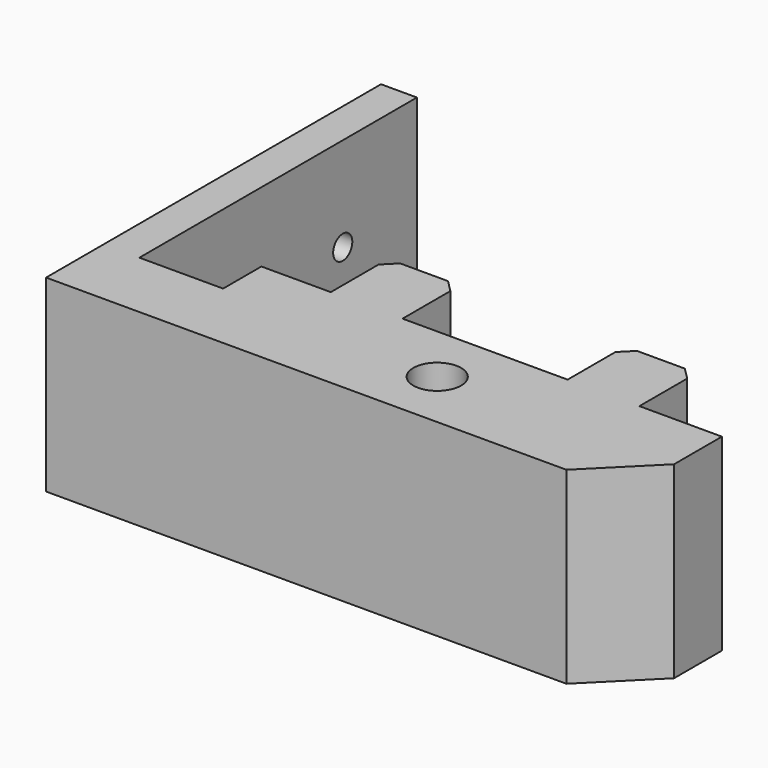
from build123d import *

# Parameters (mm, degrees)
F1_DEPTH  = 15.75
F4_D      = 4
F5_DEPTH  = 3
F6_W      = 3
F6_H      = 15.75
F7_DEPTH  = 25
F9_D      = 2
F10_W     = 6
F10_H     = 4
F11_DEPTH = 15.751
F12_SIZE  = 1
F13_SIZE  = 5
F14_DEPTH = 1
F15_DEPTH = 1


with BuildPart() as f1:
    # F0 (on Top) → F1 (new body)
    with BuildSketch(Plane.XY):
        Polygon((0, 0), (44.5, 0), (44.5, 10), (37.6, 10), (37.6, 16), (31.6, 16), (31.6, 10), (17.8, 10), (17.8, 16), (11.8, 16), (11.8, 10), (0, 10), align=None)
    extrude(amount=F1_DEPTH)

    # F4 (through all)
    with Locations(Plane.XY.offset(15.75)):
        with Locations((24.7, 5)):
            Hole(F4_D / 2)

    # F5 (add): a face of the model
    f5_faces = [f1.faces().sort_by_distance(p)[0] for p in [
        (0, 5, 7.875),
    ]]
    extrude(f5_faces, amount=F5_DEPTH)

    # F6 (on face) → F7 (join)
    with BuildSketch(Plane(origin=(0, 10, 0), x_dir=(-1, 0, 0), z_dir=(0, 1, 0))):
        with Locations((1.5, 7.875)):
            Rectangle(F6_W, F6_H)
    extrude(amount=F7_DEPTH)

    # F9 (through all)
    with Locations(Plane.YZ):
        with Locations((27.25, 7.875), (17.75, 7.875)):
            Hole(F9_D / 2)

    # F10 (on face) → F11 (cut, through all)
    with BuildSketch(Plane.XY.offset(15.75)):
        with Locations((3, 8)):
            Rectangle(F10_W, F10_H)
    extrude(amount=-F11_DEPTH, mode=Mode.SUBTRACT)

    # F12
    f12_edges = [f1.edges().sort_by_distance(p)[0] for p in [
        (11.8, 16, 7.875),
        (17.8, 16, 7.875),
        (31.6, 16, 7.875),
        (37.6, 16, 7.875),
    ]]
    chamfer(f12_edges, length=F12_SIZE)

    # F13
    f13_edges = [f1.edges().sort_by_distance(p)[0] for p in [
        (44.5, 0, 7.875),
    ]]
    chamfer(f13_edges, length=F13_SIZE)

    # F14 (add): a face of the model
    f14_faces = [f1.faces().sort_by_distance(p)[0] for p in [
        (-3, 0.3838049635, 7.875),
    ]]
    extrude(f14_faces, amount=F14_DEPTH)

    # F15 (cut): a face of the model
    f15_faces = [f1.faces().sort_by_distance(p)[0] for p in [
        (0, 20.4721036707, 7.875),
    ]]
    extrude(f15_faces, amount=-F15_DEPTH, mode=Mode.SUBTRACT)


solid = f1.part
